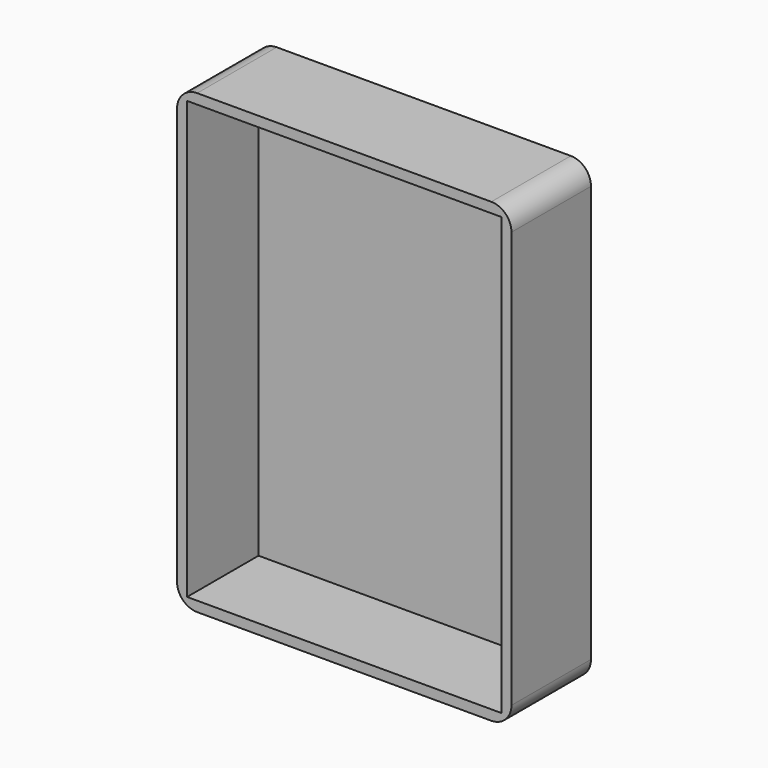
from build123d import *

# Parameters (mm, degrees)
F0_W     = 84.124804
F0_H     = 114.909604
F1_DEPTH = 12.5
F2_T     = -2.54
F3_R     = 5.08


with BuildPart() as f1:
    # F0 (on Front) → F1 (new body, symmetric)
    with BuildSketch(Plane.XZ):
        Rectangle(F0_W, F0_H)
    extrude(amount=F1_DEPTH, both=True)

    # F2
    f2_openings = [f1.faces().sort_by_distance(p)[0] for p in [
        (0, -12.5, 0),
    ]]
    offset(amount=F2_T, openings=f2_openings)

    # F3
    f3_edges = [f1.edges().sort_by_distance(p)[0] for p in [
        (-42.062402, 0, 57.454802),
        (-42.062402, 0, -57.454802),
        (42.062402, 0, 57.454802),
        (42.062402, 0, -57.454802),
    ]]
    fillet(f3_edges, radius=F3_R)


solid = f1.part
